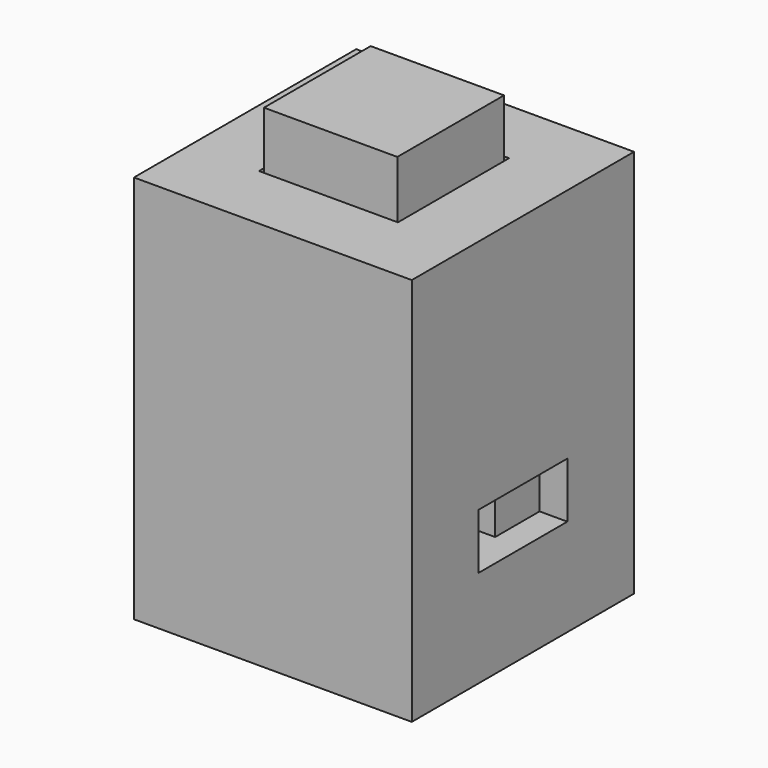
from build123d import *

# Parameters (mm, degrees)
SKETCH_W           = 10
SKETCH_H           = 10
PAD_DEPTH          = 14
SKETCH001_W        = 5
SKETCH001_H        = 5
POCKET_DEPTH       = 2
COPYSKETCH009001_W = 1
COPYSKETCH009001_H = 1
POCKET003_DEPTH    = 7.001
SKETCH008_W        = 6
SKETCH008_H        = 6
POCKET004_DEPTH    = 12
SKETCH009_W        = 4
SKETCH009_H        = 2
POCKET005_DEPTH    = 10.001
SKETCH003_W        = 4.8
SKETCH003_H        = 4.8
PAD001_DEPTH       = 4
SKETCH004_W        = 5.8
SKETCH004_H        = 5.8
PAD002_DEPTH       = 1.5
SKETCH005_W        = 6
SKETCH005_H        = 6
PAD003_DEPTH       = 3.61
SKETCH006_R        = 1.755
PAD004_DEPTH       = 1.39
SKETCH007_W        = 1
SKETCH007_H        = 1
PAD005_DEPTH       = 4.51
BOX_W              = 4
BOX_H              = 2
BOX_DEPTH          = 10


with BuildPart() as body001:
    # Sketch → Pad (new body)
    with BuildSketch(Plane.XY):
        Rectangle(SKETCH_W, SKETCH_H)
    extrude(amount=PAD_DEPTH)

    # Sketch001 (on Face6 of Pad) → Pocket (cut)
    with BuildSketch(Plane.XY.offset(14)):
        Rectangle(SKETCH001_W, SKETCH001_H)
    extrude(amount=-POCKET_DEPTH, mode=Mode.SUBTRACT)

    # CopySketch009001 → Pocket003 (cut, through all)
    with BuildSketch(Plane.XY.offset(7)):
        with Locations((-2.5, 3.5)):
            Rectangle(COPYSKETCH009001_W, COPYSKETCH009001_H)
        with Locations((-2.5, -3.5)):
            Rectangle(COPYSKETCH009001_W, COPYSKETCH009001_H)
        with Locations((2.5, 3.5)):
            Rectangle(COPYSKETCH009001_W, COPYSKETCH009001_H)
        with Locations((2.5, -3.5)):
            Rectangle(COPYSKETCH009001_W, COPYSKETCH009001_H)
    extrude(amount=-POCKET003_DEPTH, mode=Mode.SUBTRACT)

    # Sketch008 (on Face11 of Pocket) → Pocket004 (cut)
    with BuildSketch(Plane.XY.offset(12)):
        Rectangle(SKETCH008_W, SKETCH008_H)
    extrude(amount=-POCKET004_DEPTH, mode=Mode.SUBTRACT)

    # Sketch009 (on Face2 of Pocket004) → Pocket005 (cut, through all)
    with BuildSketch(Plane(origin=(-5, 0, 0), x_dir=(0, -1, 0), z_dir=(-1, 0, 0))):
        with Locations((0, 4.5)):
            Rectangle(SKETCH009_W, SKETCH009_H)
    extrude(amount=-POCKET005_DEPTH, mode=Mode.SUBTRACT)


with BuildPart() as obj1:
    # Sketch003 → Pad001 (new body)
    with BuildSketch(Plane.XY.offset(12)):
        Rectangle(SKETCH003_W, SKETCH003_H)
    extrude(amount=-PAD001_DEPTH)

    # Sketch004 (on Face6 of Pad001) → Pad002 (join)
    with BuildSketch(Plane(origin=(0, 0, 8), x_dir=(1, 0, 0), z_dir=(0, 0, -1))):
        Rectangle(SKETCH004_W, SKETCH004_H)
    extrude(amount=PAD002_DEPTH)


with BuildPart() as obj1_1:
    # Body placement: moved
    add(obj1.part.moved(Location((0, 0, 4))))


with BuildPart() as body_switch:
    # Sketch005 → Pad003 (new body)
    with BuildSketch(Plane.XY):
        Rectangle(SKETCH005_W, SKETCH005_H)
    extrude(amount=PAD003_DEPTH)

    # Sketch006 (on Face6 of Pad003) → Pad004 (join)
    with BuildSketch(Plane.XY.offset(3.61)):
        Circle(SKETCH006_R)
    extrude(amount=PAD004_DEPTH)

    # Sketch007 (on Face4 of Pad004) → Pad005 (join)
    with BuildSketch(Plane(origin=(0, 0, 1), x_dir=(1, 0, 0), z_dir=(0, 0, -1))):
        with Locations((-2.5, 3.5)):
            Rectangle(SKETCH007_W, SKETCH007_H)
        with Locations((-2.5, -3.5)):
            Rectangle(SKETCH007_W, SKETCH007_H)
        with Locations((2.5, -3.5)):
            Rectangle(SKETCH007_W, SKETCH007_H)
        with Locations((2.5, 3.5)):
            Rectangle(SKETCH007_W, SKETCH007_H)
    extrude(amount=PAD005_DEPTH)


with BuildPart() as body_switch_1:
    # Body002 placement: moved
    add(body_switch.part.moved(Location((0, 0, 5.5))))


with BuildPart() as cube:
    # Box → Box (new body)
    with BuildSketch(Plane.XY):
        with Locations((2, 1)):
            Rectangle(BOX_W, BOX_H)
    extrude(amount=BOX_DEPTH)


solid = Compound([body001.part, obj1_1.part, body_switch_1.part, cube.part])
